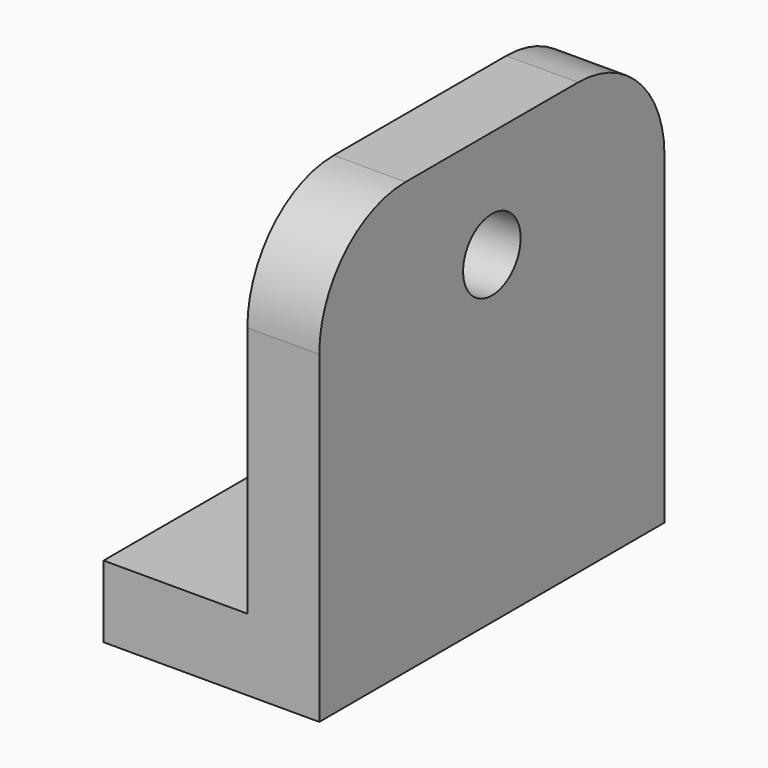
from build123d import *

# Parameters (mm, degrees)
F1_DEPTH = 76.2
F2_R     = 12.7
F3_DEPTH = 76.201
F5_DEPTH = 25.4
F6_R     = 38.1
F7_R     = 19.05
F7_R_2   = 12.7
F8_DEPTH = 6.35


with BuildPart() as f1:
    # F0 (on Front) → F1 (new body, symmetric)
    with BuildSketch(Plane.XZ):
        Polygon((-25.4, 0), (0, 0), (0, 25.4), (0, 152.4), (-25.4, 152.4), (-25.4, 25.4), (-76.2, 25.4), (-76.2, 0), align=None)
    extrude(amount=F1_DEPTH, both=True)

    # F2 (on face) → F3 (cut, through all)
    with BuildSketch(Plane.YZ):
        with Locations((0, 114.3)):
            Circle(F2_R)
    extrude(amount=-F3_DEPTH, mode=Mode.SUBTRACT)

    # F4 (on face) → F5 (cut)
    with BuildSketch(Plane.XY.offset(25.4)):
        with BuildLine():
            Line((-76.2, -12.7), (-63.5, -12.7))
            ThreePointArc((-63.5, -12.7), (-50.8, 0), (-63.5, 12.7))
            Line((-63.5, 12.7), (-76.2, 12.7))
            Line((-76.2, 12.7), (-76.2, -12.7))
        make_face()
    extrude(amount=-F5_DEPTH, mode=Mode.SUBTRACT)

    # F6
    f6_edges = [f1.edges().sort_by_distance(p)[0] for p in [
        (-12.7, -76.2, 152.4),
        (-12.7, 76.2, 152.4),
    ]]
    fillet(f6_edges, radius=F6_R)

    # F7 (on face) → F8 (cut)
    with BuildSketch(Plane(origin=(-25.4, 0, 0), x_dir=(0, -1, 0), z_dir=(-1, 0, 0))):
        with Locations((0, 114.3)):
            Circle(F7_R)
        with Locations((0, 114.3)):
            Circle(F7_R_2, mode=Mode.SUBTRACT)
    extrude(amount=-F8_DEPTH, mode=Mode.SUBTRACT)


solid = f1.part
